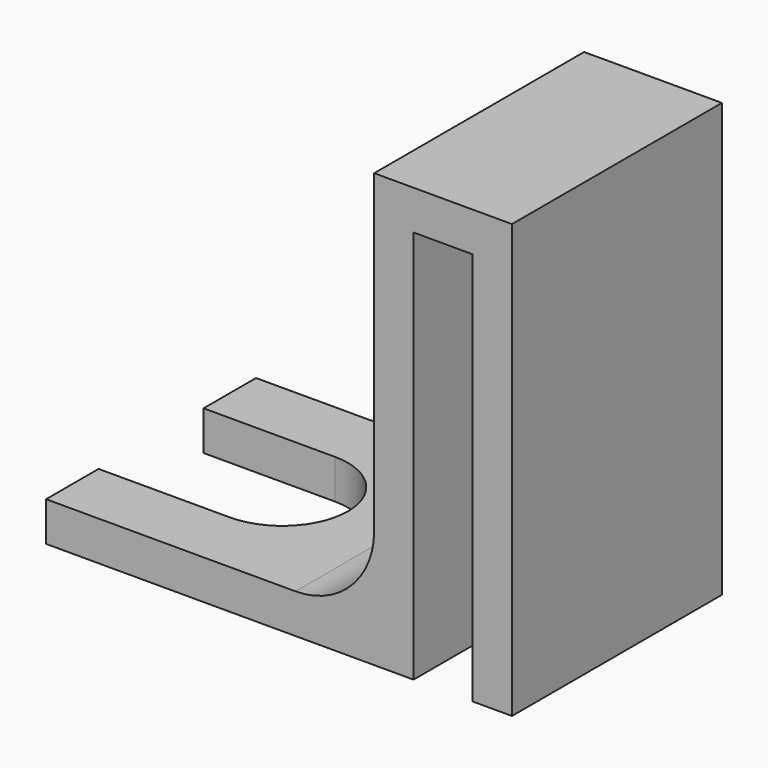
from build123d import *

# Parameters (mm, degrees)
F0_W          = 3
F0_H          = 3
F0_W_2        = 4.5
F0_W_3        = 25
F1_DEPTH      = 10
F1_DEPTH_BACK = 10
F4_DEPTH      = 10
F4_DEPTH_BACK = 10
F5_R          = 6


with BuildPart() as f1:
    # F0 (on Front) → F1 (new body, two sides)
    with BuildSketch(Plane.XZ) as f1_sk:
        with Locations((1.5, 1.5)):
            Rectangle(F0_W, F0_H)
        Polygon((3, 0), (0, 0), (0, -27), (0, -30), (3, -30), align=None)
        with Locations((5.25, 1.5)):
            Rectangle(F0_W_2, F0_H)
        with Locations((-12.5, -28.5)):
            Rectangle(F0_W_3, F0_H)
        Polygon((7.5, 3), (7.5, 0), (7.5, -30), (10.5, -30), (10.5, 3), align=None)
    extrude(amount=F1_DEPTH)
    extrude(f1_sk.sketch, amount=-F1_DEPTH_BACK)

    # F3 (on offset) → F4 (cut, two sides)
    with BuildSketch(Plane.XY.offset(-20)) as f4_sk:
        with BuildLine():
            ThreePointArc((-15, -5), (-11.464466, -3.535534), (-10, 0))
            Line((-10, 0), (-25, 0))
            Line((-25, 0), (-25, -5))
            Line((-25, -5), (-15, -5))
        make_face()
        with BuildLine():
            Line((-25, 0), (-10, 0))
            ThreePointArc((-10, 0), (-11.464466, 3.535534), (-15, 5))
            Line((-15, 5), (-25, 5))
            Line((-25, 5), (-25, 0))
        make_face()
    extrude(amount=F4_DEPTH, mode=Mode.SUBTRACT)
    extrude(f4_sk.sketch, amount=-F4_DEPTH_BACK, mode=Mode.SUBTRACT)

    # F5
    f5_edges = [f1.edges().sort_by_distance(p)[0] for p in [
        (0, 0, -27),
    ]]
    fillet(f5_edges, radius=F5_R)


solid = f1.part
